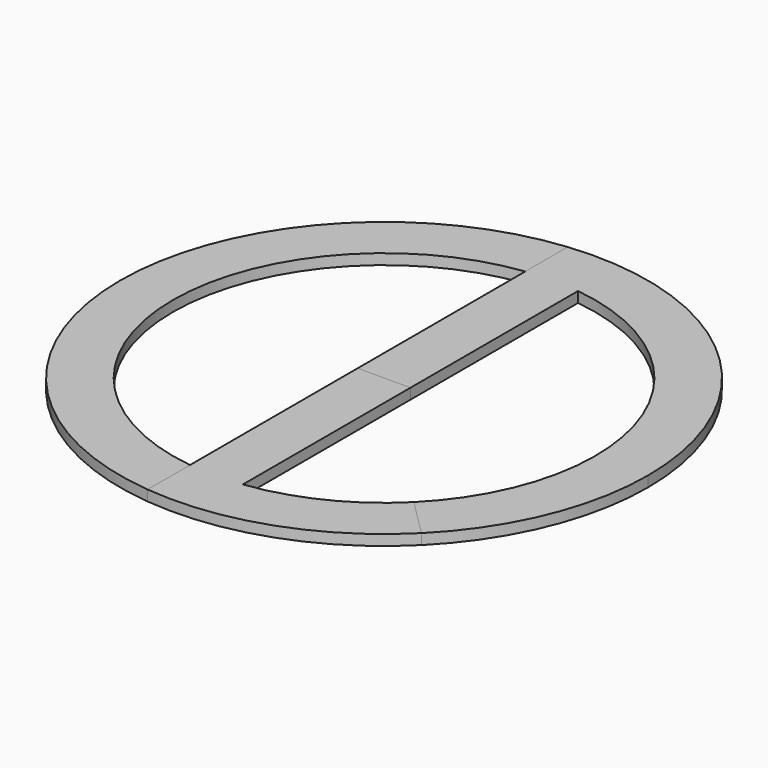
from build123d import *

# Parameters (mm, degrees)
F1_DEPTH = 1
F2_DEPTH = 1
F3_DEPTH = 1


with BuildPart() as f1:
    # F0 (on Top) → F1 (new body)
    with BuildSketch(Plane.XY):
        with BuildLine():
            Line((-2.5, 19.843135), (-2.5, 24.874686))
            ThreePointArc((-2.5, 24.874686), (-25, 0), (-2.5, -24.874686))
            Line((-2.5, -24.874686), (-2.5, -19.843135))
            ThreePointArc((-2.5, -19.843135), (-20, 0), (-2.5, 19.843135))
        make_face()
    extrude(amount=F1_DEPTH)


with BuildPart() as f2:
    # F0 (on Top) → F2 (new body)
    with BuildSketch(Plane.XY):
        with BuildLine():
            ThreePointArc((17.67767, -17.67767), (23.096988, -9.567086), (25, 0))
            ThreePointArc((25, 0), (16.77051, 18.540496), (-2.5, 24.874686))
            Line((-2.5, 24.874686), (-2.5, 19.843135))
            Line((-2.5, 19.843135), (-2.5, 0))
            Line((-2.5, 0), (2.5, 0))
            Line((2.5, 0), (2.5, 19.843135))
            ThreePointArc((2.5, 19.843135), (18.920619, 6.481526), (14.142136, -14.142136))
            Line((14.142136, -14.142136), (17.67767, -17.67767))
        make_face()
    extrude(amount=F2_DEPTH)


with BuildPart() as f3:
    # F0 (on Top) → F3 (new body)
    with BuildSketch(Plane.XY):
        with BuildLine():
            ThreePointArc((-2.5, -24.874686), (8.39879, -23.546981), (17.67767, -17.67767))
            Line((17.67767, -17.67767), (14.142136, -14.142136))
            ThreePointArc((14.142136, -14.142136), (8.795767, -17.962029), (2.5, -19.843135))
            Line((2.5, -19.843135), (2.5, 0))
            Line((2.5, 0), (-2.5, 0))
            Line((-2.5, 0), (-2.5, -19.843135))
            Line((-2.5, -19.843135), (-2.5, -24.874686))
        make_face()
    extrude(amount=F3_DEPTH)


solid = Compound([f1.part, f2.part, f3.part])
